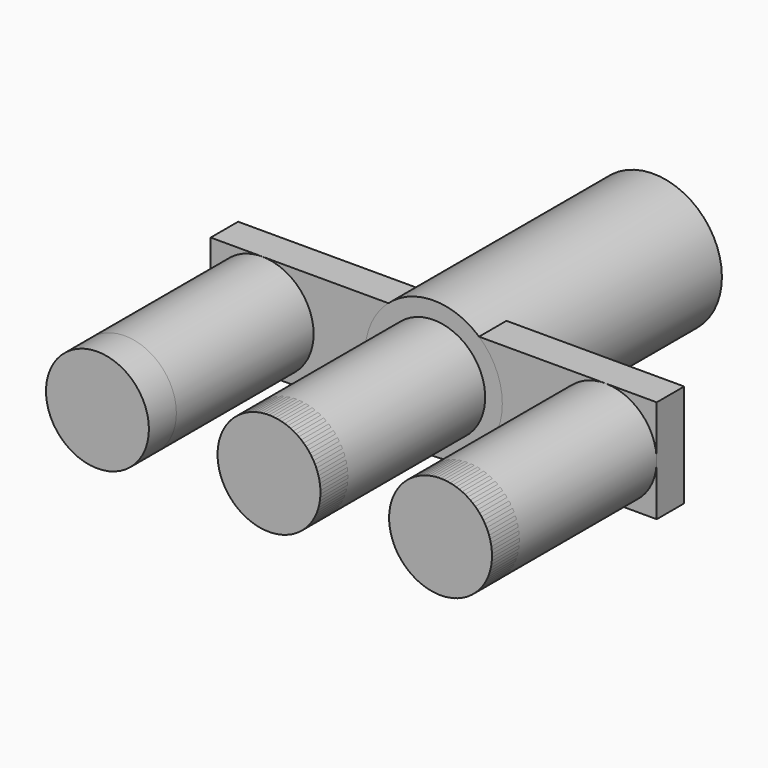
from build123d import *

# Parameters (mm, degrees)
F0_R      = 19.05
F1_DEPTH  = 76.2
F1_FACE_R = 19.05
F2_W      = 165.1
F2_H      = 38.1
F3_DEPTH  = 12.7
F4_R      = 25.4
F5_DEPTH  = 101.6


with BuildPart() as f1:
    # F0 (on Front) → F1 (new body)
    with BuildSketch(Plane.XZ):
        with BuildLine():
            ThreePointArc((82.55, 0), (63.5, 19.05), (44.45, 0))
            ThreePointArc((44.45, 0), (63.5, -19.05), (82.55, 0))
        make_face()
        with BuildLine():
            Line((0, 0), (19.05, 0))
            ThreePointArc((19.05, 0), (0, 19.05), (-19.05, 0))
            Line((-19.05, 0), (0, 0))
        make_face()
        with Locations((-63.5, 0)):
            Circle(F0_R)
        with BuildLine():
            ThreePointArc((-19.05, 0), (0, -19.05), (19.05, 0))
            Line((19.05, 0), (0, 0))
            Line((0, 0), (-19.05, 0))
        make_face()
    extrude(amount=F1_DEPTH)


with BuildPart() as f3:
    # F1_face (on face) + F2 (on Front) → F3 (new body)
    with BuildSketch(Plane(origin=(-63.5, -76.2, 0), x_dir=(1, 0, 0), z_dir=(0, -1, 0))):
        Circle(F1_FACE_R)
        with Locations((63.5, 0)):
            Circle(F1_FACE_R)
        with Locations((127, 0)):
            Circle(F1_FACE_R)
    with BuildSketch(Plane.XZ):
        Rectangle(F2_W, F2_H)
    extrude(amount=-F3_DEPTH)


with BuildPart() as f5:
    # F4 (on Front) → F5 (new body)
    with BuildSketch(Plane.XZ):
        Circle(F4_R)
    extrude(amount=-F5_DEPTH)


solid = Compound([f1.part, f3.part, f5.part])
